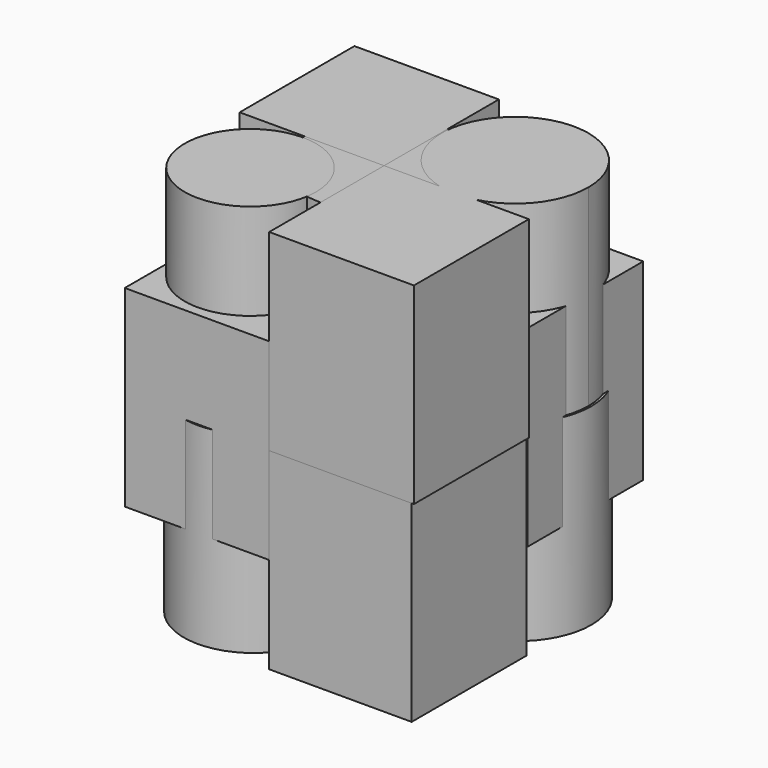
from build123d import *

# Parameters (mm, degrees)
F1_DEPTH = 50.8
F2_R     = 41.9827329892
F3_DEPTH = 50.8
F4_R     = 46.3690450782
F5_DEPTH = 50.8
F6_W     = 76.2355700135
F6_H     = 75.7283642888
F7_DEPTH = 50.8
F6_R     = 34.657295951
F8_W     = 75.3795877099
F8_H     = 74.8647451401
F9_DEPTH = 50.8
F8_R     = 36.9201585183


with BuildPart() as f1:
    # F0 (on Top) → F1 (new body, symmetric)
    with BuildSketch(Plane.XY):
        with BuildLine():
            Line((-76.2355700135, 0), (-76.2355700135, -75.7897570729))
            Line((-76.2355700135, -75.7897570729), (0, -75.7897570729))
            Line((0, -75.7897570729), (0, 0))
            Line((0, 0), (-35.3039363166, 0))
            ThreePointArc((-35.3039363166, 0), (-38.8783067636, -0.1698086305), (-42.4526772107, 0))
            Line((-42.4526772107, 0), (-76.2355700135, 0))
        make_face()
        with BuildLine():
            ThreePointArc((-1.174218853, 37.5342792802), (-64.2439318064, 65.430216464), (-42.4526772107, 0))
            Line((-42.4526772107, 0), (-35.3039363166, 0))
            ThreePointArc((-35.3039363166, 0), (-10.9823695798, 12.1686542375), (-1.174218853, 37.5342792802))
        make_face()
        with BuildLine():
            Line((-35.3039363166, 0), (-42.4526772107, 0))
            ThreePointArc((-42.4526772107, 0), (-38.8783067636, -0.1698086305), (-35.3039363166, 0))
        make_face()
    extrude(amount=F1_DEPTH, both=True)


with BuildPart() as f1b:
    # F0 (on Top) → F1, piece 2 (new body, symmetric)
    with BuildSketch(Plane.XY):
        with BuildLine():
            Line((0, 76.2355700135), (0, 0))
            Line((0, 0), (32.9908393323, 0))
            ThreePointArc((32.9908393323, 0), (37.8278076863, 0.327882624), (42.6647760403, 0))
            Line((42.6647760403, 0), (75.7897570729, 0))
            Line((75.7897570729, 0), (75.7897570729, 76.2355700135))
            Line((75.7897570729, 76.2355700135), (0, 76.2355700135))
        make_face()
        with BuildLine():
            ThreePointArc((42.6647760403, 0), (37.8278076863, 0.327882624), (32.9908393323, 0))
            Line((32.9908393323, 0), (42.6647760403, 0))
        make_face()
        with BuildLine():
            Line((42.6647760403, 0), (32.9908393323, 0))
            ThreePointArc((32.9908393323, 0), (14.2559473008, -62.5138235869), (73.6695512762, -35.513860966))
            ThreePointArc((73.6695512762, -35.513860966), (64.8277703072, -11.9420005804), (42.6647760403, 0))
        make_face()
    extrude(amount=F1_DEPTH, both=True)


with BuildPart() as f3:
    # F2 (on face) → F3 (new body, symmetric)
    with BuildSketch(Plane.XY.offset(50.8)):
        Circle(F2_R)
    extrude(amount=F3_DEPTH, both=True)


with BuildPart() as f5:
    # F4 (on face) → F5 (new body, symmetric)
    with BuildSketch(Plane(origin=(0, 0, -50.8), x_dir=(1, 0, 0), z_dir=(0, 0, -1))):
        Circle(F4_R)
    extrude(amount=F5_DEPTH, both=True)


with BuildPart() as f7:
    # F6 (on face) → F7 (new body, symmetric)
    with BuildSketch(Plane.XY.offset(50.8)):
        with Locations((-38.1177850068, 37.8641821444)):
            Rectangle(F6_W, F6_H)
    extrude(amount=F7_DEPTH, both=True)


with BuildPart() as f7b:
    # F6 (on face) → F7, piece 2 (new body, symmetric)
    with BuildSketch(Plane.XY.offset(50.8)):
        with BuildLine():
            Line((29.4839675583, 0), (0, 0))
            Line((0, 0), (0, -75.7897570729))
            Line((0, -75.7897570729), (76.3831436634, -75.7897570729))
            Line((76.3831436634, -75.7897570729), (76.3831436634, 0))
            Line((76.3831436634, 0), (48.7136638882, 0))
            ThreePointArc((48.7136638882, 0), (39.0988157233, -1.2123166643), (29.4839675583, 0))
        make_face()
        with BuildLine():
            ThreePointArc((77.8325144727, 37.5213820851), (15.3513865312, 68.1213661631), (29.4839675583, 0))
            Line((29.4839675583, 0), (48.7136638882, 0))
            ThreePointArc((48.7136638882, 0), (69.6987998013, 13.773952893), (77.8325144727, 37.5213820851))
        make_face()
        with BuildLine():
            Line((48.7136638882, 0), (29.4839675583, 0))
            ThreePointArc((29.4839675583, 0), (39.0988157233, -1.2123166643), (48.7136638882, 0))
        make_face()
    extrude(amount=F7_DEPTH, both=True)


with BuildPart() as f7c:
    # F6 (on face) → F7, piece 3 (new body, symmetric)
    with BuildSketch(Plane.XY.offset(50.8)):
        with Locations((-41.9001344524, -35.893687272)):
            Circle(F6_R)
    extrude(amount=F7_DEPTH, both=True)


with BuildPart() as f9:
    # F8 (on face) → F9 (new body, symmetric)
    with BuildSketch(Plane(origin=(0, 0, -50.8), x_dir=(1, 0, 0), z_dir=(0, 0, -1))):
        with Locations((-37.689793855, -37.43237257)):
            Rectangle(F8_W, F8_H)
    extrude(amount=F9_DEPTH, both=True)


with BuildPart() as f9b:
    # F8 (on face) → F9, piece 2 (new body, symmetric)
    with BuildSketch(Plane(origin=(0, 0, -50.8), x_dir=(1, 0, 0), z_dir=(0, 0, -1))):
        with BuildLine():
            Line((0, 75.7897570729), (0, 0))
            Line((0, 0), (33.7242558599, 0))
            ThreePointArc((33.7242558599, 0), (40.2381688994, 0.5524818444), (46.752081939, 0))
            Line((46.752081939, 0), (75.1779526472, 0))
            Line((75.1779526472, 0), (75.1779526472, 75.7897570729))
            Line((75.1779526472, 75.7897570729), (0, 75.7897570729))
        make_face()
        with BuildLine():
            ThreePointArc((46.752081939, 0), (40.2381688994, 0.5524818444), (33.7242558599, 0))
            Line((33.7242558599, 0), (46.752081939, 0))
        make_face()
        with BuildLine():
            Line((46.752081939, 0), (33.7242558599, 0))
            ThreePointArc((33.7242558599, 0), (15.2987696707, -67.6861418797), (78.9148238023, -38.1241730585))
            ThreePointArc((78.9148238023, -38.1241730585), (69.8001377207, -13.1847738297), (46.752081939, 0))
        make_face()
    extrude(amount=F9_DEPTH, both=True)


with BuildPart() as f9c:
    # F8 (on face) → F9, piece 3 (new body, symmetric)
    with BuildSketch(Plane(origin=(0, 0, -50.8), x_dir=(1, 0, 0), z_dir=(0, 0, -1))):
        with Locations((-37.122128104, 39.6301070985)):
            Circle(F8_R)
    extrude(amount=F9_DEPTH, both=True)


solid = Compound([f1.part, f1b.part, f3.part, f5.part, f7.part, f7b.part, f7c.part, f9.part, f9b.part, f9c.part])
